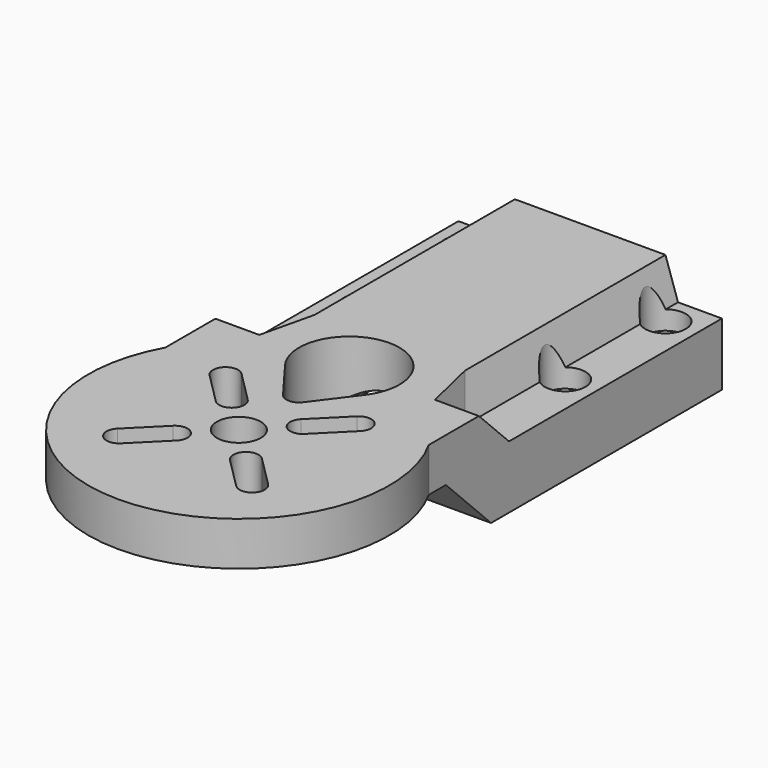
from build123d import *

# Parameters (mm, degrees)
SKETCH007_R                          = 3.25
EXTRUDE006_DEPTH                     = 10
SKETCH006_AS_DRAWN_R                 = 9
EXTRUDE005_DEPTH                     = 27
EXTRUDE005_ONTO_SKETCH006_ROLL_ANGLE = 90
SKETCH_R                             = 3.5
SKETCH_R_2                           = 1.75
EXTRUDE_DEPTH                        = 30
SKETCH001_AS_DRAWN_R                 = 12.5
EXTRUDE004_DEPTH                     = 50
EXTRUDE004_ONTO_SKETCH001_ROLL_ANGLE = 90
EXTRUDE002_DEPTH                     = 60
SKETCH003_AS_DRAWN_W                 = 50
SKETCH003_AS_DRAWN_H                 = 16
EXTRUDE003_DEPTH                     = 98
EXTRUDE003_ONTO_SKETCH003_ROLL_ANGLE = 90
CHAMFER_SIZE                         = 0.5


with BuildPart() as extrude006:
    # Sketch007 → Extrude006 (new body)
    with BuildSketch(Plane.XY):
        with Locations((-16, 45)):
            Circle(SKETCH007_R)
        with Locations((16, 45)):
            Circle(SKETCH007_R)
        with Locations((-16, 65)):
            Circle(SKETCH007_R)
        with Locations((16, 65)):
            Circle(SKETCH007_R)
    extrude(amount=EXTRUDE006_DEPTH)


with BuildPart() as extrude006_1:
    # Extrude006 placement: moved
    add(extrude006.part.moved(Location((0, 0, 7))))


with BuildPart() as extrude005:
    # Sketch006 as drawn → Extrude005 (new)
    with BuildSketch(Plane.XY):
        Circle(SKETCH006_AS_DRAWN_R)
    extrude(amount=-EXTRUDE005_DEPTH)


with BuildPart() as extrude005_1:
    # Extrude005 onto Sketch006 roll: moved
    add(extrude005.part.rotate(Axis((0, 0, 0), (1, 0, 0)), EXTRUDE005_ONTO_SKETCH006_ROLL_ANGLE))


with BuildPart() as extrude005_2:
    # Extrude005 onto Sketch006 placement: moved
    add(extrude005_1.part.moved(Location((0, 33, 0))))


with BuildPart() as extrude005_3:
    # Extrude005 placement: moved
    add(extrude005_2.part.moved(Location((0, -18, 0))))


with BuildPart() as sweep_body:
    # Sweep: sweep along a path in Sketch005
    with BuildLine(Plane.YZ) as sweep_path:
        Line((70, 40), (40, 40))
        Line((40, 40), (32.928932, 47.071068))
    # Sketch004 → Sweep (sweep)
    with BuildSketch(Plane.XZ.offset(-70)):
        Polygon((-12, 16), (12, 16), (14, 10), (21, 10), (21, 28), (-21, 28), (-21, 10), (-14, 10), align=None)
    sweep(path=sweep_path.line, transition=Transition.RIGHT)


with BuildPart() as extrude_body:
    # Sketch → Extrude (new body)
    with BuildSketch(Plane.XY):
        Circle(SKETCH_R)
        with Locations((-16, 45)):
            Circle(SKETCH_R_2)
        with Locations((-16, 65)):
            Circle(SKETCH_R_2)
        with Locations((16, 65)):
            Circle(SKETCH_R_2)
        with Locations((16, 45)):
            Circle(SKETCH_R_2)
        with BuildLine():
            ThreePointArc((-12.020815, -9.192388), (-12.020815, -12.020815), (-9.192388, -12.020815))
            Line((-9.192388, -12.020815), (-4.242641, -7.071068))
            ThreePointArc((-4.242641, -7.071068), (-4.242641, -4.242641), (-7.071068, -4.242641))
            Line((-12.020815, -9.192388), (-7.071068, -4.242641))
        make_face()
        with BuildLine():
            ThreePointArc((7.071068, -4.242641), (4.242641, -4.242641), (4.242641, -7.071068))
            Line((4.242641, -7.071068), (9.192388, -12.020815))
            ThreePointArc((9.192388, -12.020815), (12.020815, -12.020815), (12.020815, -9.192388))
            Line((7.071068, -4.242641), (12.020815, -9.192388))
        make_face()
        with BuildLine():
            ThreePointArc((4.242641, 7.071068), (4.242641, 4.242641), (7.071068, 4.242641))
            Line((7.071068, 4.242641), (12.020815, 9.192388))
            ThreePointArc((12.020815, 9.192388), (12.020815, 12.020815), (9.192388, 12.020815))
            Line((4.242641, 7.071068), (9.192388, 12.020815))
        make_face()
        with BuildLine():
            ThreePointArc((-9.192388, 12.020815), (-12.020815, 12.020815), (-12.020815, 9.192388))
            Line((-12.020815, 9.192388), (-7.071068, 4.242641))
            ThreePointArc((-7.071068, 4.242641), (-4.242641, 4.242641), (-4.242641, 7.071068))
            Line((-9.192388, 12.020815), (-4.242641, 7.071068))
        make_face()
        with BuildLine():
            ThreePointArc((6.4, 17.2), (0, 30), (-6.4, 17.2))
            Line((-6.4, 17.2), (-1.6, 10.8))
            ThreePointArc((-1.6, 10.8), (0, 10), (1.6, 10.8))
            Line((6.4, 17.2), (1.6, 10.8))
        make_face()
        with BuildLine():
            ThreePointArc((-21, 11.61895), (0, -24), (21, 11.61895))
            Line((21, 70), (21, 11.61895))
            Line((30, 70), (21, 70))
            Line((30, -30), (30, 70))
            Line((-30, -30), (30, -30))
            Line((-30, 70), (-30, -30))
            Line((-21, 70), (-30, 70))
            Line((-21, 11.61895), (-21, 70))
        make_face()
    extrude(amount=EXTRUDE_DEPTH)


with BuildPart() as extrude004:
    # Sketch001 as drawn → Extrude004 (new)
    with BuildSketch(Plane.XY):
        Circle(SKETCH001_AS_DRAWN_R)
    extrude(amount=-EXTRUDE004_DEPTH)


with BuildPart() as extrude004_1:
    # Extrude004 onto Sketch001 roll: moved
    add(extrude004.part.rotate(Axis((0, 0, 0), (1, 0, 0)), EXTRUDE004_ONTO_SKETCH001_ROLL_ANGLE))


with BuildPart() as extrude004_2:
    # Extrude004 onto Sketch001 placement: moved
    add(extrude004_1.part.moved(Location((0, 32, 0))))


with BuildPart() as extrude002:
    # Sketch002 → Extrude002 (new body)
    with BuildSketch(Plane.YZ.offset(33)):
        Polygon((-30, 9), (15, 9), (24, 0), (-30, 0), align=None)
    extrude(amount=-EXTRUDE002_DEPTH)


with BuildPart() as chamfer_body:
    # Sketch003 as drawn → Extrude003 (new)
    with BuildSketch(Plane.XY):
        with Locations((0, 8)):
            Rectangle(SKETCH003_AS_DRAWN_W, SKETCH003_AS_DRAWN_H)
    extrude(amount=-EXTRUDE003_DEPTH)


with BuildPart() as chamfer_body_1:
    # Extrude003 onto Sketch003 roll: moved
    add(chamfer_body.part.rotate(Axis((0, 0, 0), (1, 0, 0)), EXTRUDE003_ONTO_SKETCH003_ROLL_ANGLE))


with BuildPart() as chamfer_body_2:
    # Extrude003 onto Sketch003 placement: moved
    add(chamfer_body_1.part.moved(Location((0, -28, 0))))

    # Cut: cut Extrude002
    add(extrude002.part, mode=Mode.SUBTRACT)

    # Cut001: cut Extrude004
    add(extrude004_2.part, mode=Mode.SUBTRACT)

    # Cut002: cut Extrude body
    add(extrude_body.part, mode=Mode.SUBTRACT)

    # Cut003: cut Sweep body
    add(sweep_body.part, mode=Mode.SUBTRACT)

    # Cut004: cut Extrude005
    add(extrude005_3.part, mode=Mode.SUBTRACT)

    # Cut005: cut Extrude006
    add(extrude006_1.part, mode=Mode.SUBTRACT)

    # Chamfer
    chamfer_edges = [chamfer_body_2.edges().sort_by_distance(p)[0] for p in [
        (12.5, 51, 0),
        (0, 70, 12.5),
        (-12.5, 51, 0),
    ]]
    chamfer(chamfer_edges, length=CHAMFER_SIZE)


solid = chamfer_body_2.part
